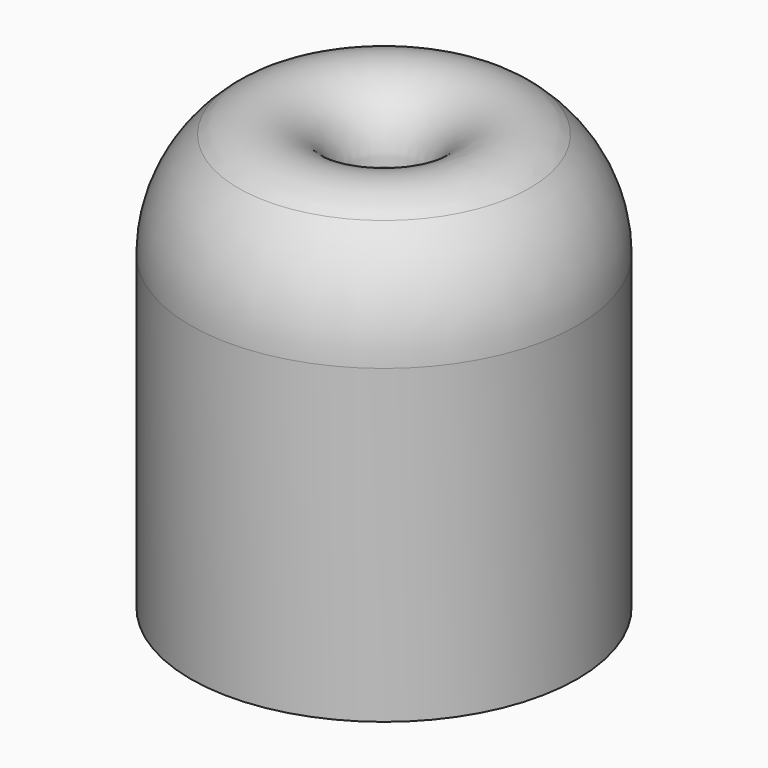
from build123d import *

# Parameters (mm, degrees)
F0_R     = 15
F1_DEPTH = 25
F2_START = 25
F0_R_2   = 3
F2_DEPTH = 10
F3_R     = 10.8639610307
F4_R     = 5


with BuildPart() as f1:
    # F0 (on Top) → F1 (new body)
    with BuildSketch(Plane.XY):
        Circle(F0_R)
        Polygon((12.5, 0), (6.25, -10.8253175473), (-6.25, -10.8253175473), (-12.5, 0), (-6.25, 10.8253175473), (6.25, 10.8253175473), align=None, mode=Mode.SUBTRACT)
    extrude(amount=F1_DEPTH)

    # F0 (on Top) → F2 (join)
    with BuildSketch(Plane.XY.offset(F2_START)):
        Circle(F0_R)
        Polygon((12.5, 0), (6.25, -10.8253175473), (-6.25, -10.8253175473), (-12.5, 0), (-6.25, 10.8253175473), (6.25, 10.8253175473), align=None, mode=Mode.SUBTRACT)
        Polygon((-6.25, -10.8253175473), (6.25, -10.8253175473), (12.5, 0), (6.25, 10.8253175473), (-6.25, 10.8253175473), (-12.5, 0), align=None)
        Circle(F0_R_2, mode=Mode.SUBTRACT)
    extrude(amount=F2_DEPTH)

    # F3
    f3_edges = [f1.edges().sort_by_distance(p)[0] for p in [
        (-15, 0, 35),
    ]]
    fillet(f3_edges, radius=F3_R)

    # F4
    f4_edges = [f1.edges().sort_by_distance(p)[0] for p in [
        (-3, 0, 35),
    ]]
    fillet(f4_edges, radius=F4_R)


solid = f1.part
